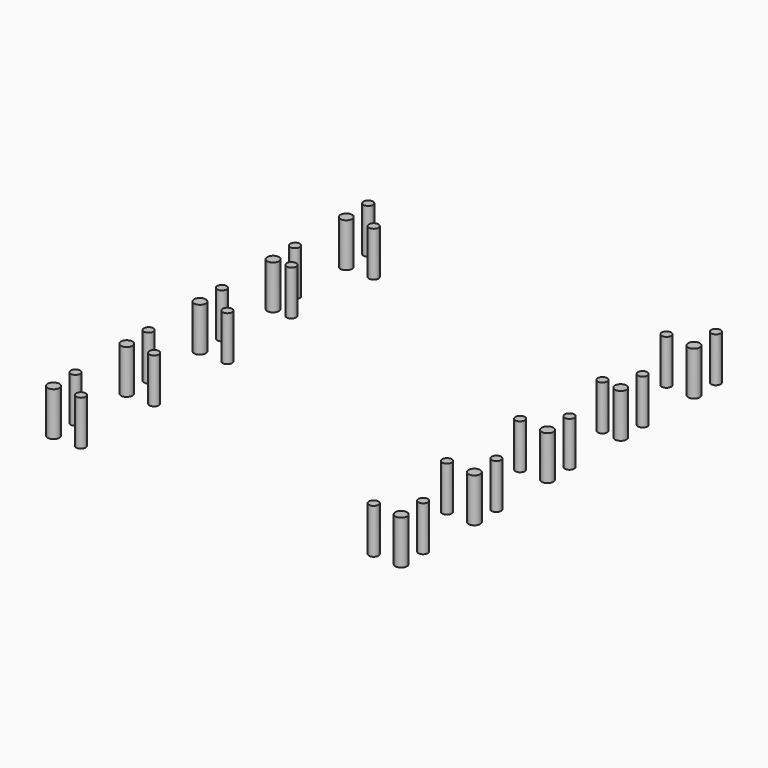
from build123d import *

# Parameters (mm, degrees)
CYLINDER036_R     = 2.57969
CYLINDER036_DEPTH = 24.5
CYLINDER035_R     = 3.175
CYLINDER035_DEPTH = 24
CYLINDER039_R     = 2.57969
CYLINDER039_DEPTH = 24.5
CYLINDER037_R     = 3.175
CYLINDER037_DEPTH = 24
CYLINDER038_R     = 2.57969
CYLINDER038_DEPTH = 24.5
CYLINDER040_R     = 2.57969
CYLINDER040_DEPTH = 24.5
CYLINDER030_R     = 2.57969
CYLINDER030_DEPTH = 24.5
CYLINDER029_R     = 3.175
CYLINDER029_DEPTH = 24
CYLINDER033_R     = 2.57969
CYLINDER033_DEPTH = 24.5
CYLINDER031_R     = 3.175
CYLINDER031_DEPTH = 24
CYLINDER032_R     = 2.57969
CYLINDER032_DEPTH = 24.5
CYLINDER034_R     = 2.57969
CYLINDER034_DEPTH = 24.5
CYLINDER024_R     = 2.57969
CYLINDER024_DEPTH = 24.5
CYLINDER023_R     = 3.175
CYLINDER023_DEPTH = 24
CYLINDER027_R     = 2.57969
CYLINDER027_DEPTH = 24.5
CYLINDER025_R     = 3.175
CYLINDER025_DEPTH = 24
CYLINDER026_R     = 2.57969
CYLINDER026_DEPTH = 24.5
CYLINDER028_R     = 2.57969
CYLINDER028_DEPTH = 24.5
CYLINDER018_R     = 2.57969
CYLINDER018_DEPTH = 24.5
CYLINDER017_R     = 3.175
CYLINDER017_DEPTH = 24
CYLINDER021_R     = 2.57969
CYLINDER021_DEPTH = 24.5
CYLINDER019_R     = 3.175
CYLINDER019_DEPTH = 24
CYLINDER020_R     = 2.57969
CYLINDER020_DEPTH = 24.5
CYLINDER022_R     = 2.57969
CYLINDER022_DEPTH = 24.5
CYLINDER042_R     = 2.57969
CYLINDER042_DEPTH = 24.5
CYLINDER041_R     = 3.175
CYLINDER041_DEPTH = 24
CYLINDER045_R     = 2.57969
CYLINDER045_DEPTH = 24.5
CYLINDER043_R     = 3.175
CYLINDER043_DEPTH = 24
CYLINDER044_R     = 2.57969
CYLINDER044_DEPTH = 24.5
CYLINDER046_R     = 2.57969
CYLINDER046_DEPTH = 24.5


with BuildPart() as threaded017:
    # Cylinder036 → Cylinder036 (new body)
    with BuildSketch(Plane(origin=(20, 10, 0), x_dir=(1, 0, 0), z_dir=(0, 0, 1))):
        Circle(CYLINDER036_R)
    extrude(amount=CYLINDER036_DEPTH)


with BuildPart() as obj1:
    # Cylinder035 → Cylinder035 (new body)
    with BuildSketch(Plane(origin=(10, 10, 0), x_dir=(1, 0, 0), z_dir=(0, 0, 1))):
        Circle(CYLINDER035_R)
    extrude(amount=CYLINDER035_DEPTH)


with BuildPart() as obj2:
    # Cylinder039 → Cylinder039 (new body)
    with BuildSketch(Plane(origin=(10, 25, 0), x_dir=(1, 0, 0), z_dir=(0, 0, 1))):
        Circle(CYLINDER039_R)
    extrude(amount=CYLINDER039_DEPTH)

    # Fusion013: union Threaded017, obj1
    add(threaded017.part)
    add(obj1.part)


with BuildPart() as obj3:
    # Cylinder037 → Cylinder037 (new body)
    with BuildSketch(Plane(origin=(10, 10, 0), x_dir=(1, 0, 0), z_dir=(0, 0, 1))):
        Circle(CYLINDER037_R)
    extrude(amount=CYLINDER037_DEPTH)


with BuildPart() as threaded018:
    # Cylinder038 → Cylinder038 (new body)
    with BuildSketch(Plane(origin=(0, 10, 0), x_dir=(1, 0, 0), z_dir=(0, 0, 1))):
        Circle(CYLINDER038_R)
    extrude(amount=CYLINDER038_DEPTH)


with BuildPart() as mountbar003:
    # Cylinder040 → Cylinder040 (new body)
    with BuildSketch(Plane(origin=(10, 25, 0), x_dir=(1, 0, 0), z_dir=(0, 0, 1))):
        Circle(CYLINDER040_R)
    extrude(amount=CYLINDER040_DEPTH)

    # Fusion014: union obj3, Threaded018
    add(obj3.part)
    add(threaded018.part)


with BuildPart() as mountbar003_1:
    # Fusion014 placement: moved
    add(mountbar003.part.moved(Location((190, 0, 0))))

    # Fusion015: union obj2
    add(obj2.part)


with BuildPart() as mountbar003_2:
    # Fusion015 placement: moved
    add(mountbar003_1.part.moved(Location((0, 150, 0))))


with BuildPart() as threaded013:
    # Cylinder030 → Cylinder030 (new body)
    with BuildSketch(Plane(origin=(25, 10, 0), x_dir=(1, 0, 0), z_dir=(0, 0, 1))):
        Circle(CYLINDER030_R)
    extrude(amount=CYLINDER030_DEPTH)


with BuildPart() as obj4:
    # Cylinder029 → Cylinder029 (new body)
    with BuildSketch(Plane(origin=(10, 10, 0), x_dir=(1, 0, 0), z_dir=(0, 0, 1))):
        Circle(CYLINDER029_R)
    extrude(amount=CYLINDER029_DEPTH)


with BuildPart() as obj5:
    # Cylinder033 → Cylinder033 (new body)
    with BuildSketch(Plane(origin=(10, 25, 0), x_dir=(1, 0, 0), z_dir=(0, 0, 1))):
        Circle(CYLINDER033_R)
    extrude(amount=CYLINDER033_DEPTH)

    # Fusion010: union Threaded013, obj4
    add(threaded013.part)
    add(obj4.part)


with BuildPart() as obj6:
    # Cylinder031 → Cylinder031 (new body)
    with BuildSketch(Plane(origin=(10, 10, 0), x_dir=(1, 0, 0), z_dir=(0, 0, 1))):
        Circle(CYLINDER031_R)
    extrude(amount=CYLINDER031_DEPTH)


with BuildPart() as threaded014:
    # Cylinder032 → Cylinder032 (new body)
    with BuildSketch(Plane(origin=(-5, 10, 0), x_dir=(1, 0, 0), z_dir=(0, 0, 1))):
        Circle(CYLINDER032_R)
    extrude(amount=CYLINDER032_DEPTH)


with BuildPart() as mountbar002:
    # Cylinder034 → Cylinder034 (new body)
    with BuildSketch(Plane(origin=(10, 25, 0), x_dir=(1, 0, 0), z_dir=(0, 0, 1))):
        Circle(CYLINDER034_R)
    extrude(amount=CYLINDER034_DEPTH)

    # Fusion011: union obj6, Threaded014
    add(obj6.part)
    add(threaded014.part)


with BuildPart() as mountbar002_1:
    # Fusion011 placement: moved
    add(mountbar002.part.moved(Location((190, 0, 0))))

    # Fusion012: union obj5
    add(obj5.part)


with BuildPart() as mountbar002_2:
    # Fusion012 placement: moved
    add(mountbar002_1.part.moved(Location((0, 100, 0))))


with BuildPart() as threaded009:
    # Cylinder024 → Cylinder024 (new body)
    with BuildSketch(Plane(origin=(25, 10, 0), x_dir=(1, 0, 0), z_dir=(0, 0, 1))):
        Circle(CYLINDER024_R)
    extrude(amount=CYLINDER024_DEPTH)


with BuildPart() as obj7:
    # Cylinder023 → Cylinder023 (new body)
    with BuildSketch(Plane(origin=(10, 10, 0), x_dir=(1, 0, 0), z_dir=(0, 0, 1))):
        Circle(CYLINDER023_R)
    extrude(amount=CYLINDER023_DEPTH)


with BuildPart() as obj8:
    # Cylinder027 → Cylinder027 (new body)
    with BuildSketch(Plane(origin=(10, 25, 0), x_dir=(1, 0, 0), z_dir=(0, 0, 1))):
        Circle(CYLINDER027_R)
    extrude(amount=CYLINDER027_DEPTH)

    # Fusion007: union Threaded009, obj7
    add(threaded009.part)
    add(obj7.part)


with BuildPart() as obj9:
    # Cylinder025 → Cylinder025 (new body)
    with BuildSketch(Plane(origin=(10, 10, 0), x_dir=(1, 0, 0), z_dir=(0, 0, 1))):
        Circle(CYLINDER025_R)
    extrude(amount=CYLINDER025_DEPTH)


with BuildPart() as threaded010:
    # Cylinder026 → Cylinder026 (new body)
    with BuildSketch(Plane(origin=(-5, 10, 0), x_dir=(1, 0, 0), z_dir=(0, 0, 1))):
        Circle(CYLINDER026_R)
    extrude(amount=CYLINDER026_DEPTH)


with BuildPart() as mountbar001:
    # Cylinder028 → Cylinder028 (new body)
    with BuildSketch(Plane(origin=(10, 25, 0), x_dir=(1, 0, 0), z_dir=(0, 0, 1))):
        Circle(CYLINDER028_R)
    extrude(amount=CYLINDER028_DEPTH)

    # Fusion008: union obj9, Threaded010
    add(obj9.part)
    add(threaded010.part)


with BuildPart() as mountbar001_1:
    # Fusion008 placement: moved
    add(mountbar001.part.moved(Location((190, 0, 0))))

    # Fusion009: union obj8
    add(obj8.part)


with BuildPart() as mountbar001_2:
    # Fusion009 placement: moved
    add(mountbar001_1.part.moved(Location((0, 50, 0))))


with BuildPart() as threaded005:
    # Cylinder018 → Cylinder018 (new body)
    with BuildSketch(Plane(origin=(25, 10, 0), x_dir=(1, 0, 0), z_dir=(0, 0, 1))):
        Circle(CYLINDER018_R)
    extrude(amount=CYLINDER018_DEPTH)


with BuildPart() as obj10:
    # Cylinder017 → Cylinder017 (new body)
    with BuildSketch(Plane(origin=(10, 10, 0), x_dir=(1, 0, 0), z_dir=(0, 0, 1))):
        Circle(CYLINDER017_R)
    extrude(amount=CYLINDER017_DEPTH)


with BuildPart() as obj11:
    # Cylinder021 → Cylinder021 (new body)
    with BuildSketch(Plane(origin=(10, 25, 0), x_dir=(1, 0, 0), z_dir=(0, 0, 1))):
        Circle(CYLINDER021_R)
    extrude(amount=CYLINDER021_DEPTH)

    # Fusion004: union Threaded005, obj10
    add(threaded005.part)
    add(obj10.part)


with BuildPart() as obj12:
    # Cylinder019 → Cylinder019 (new body)
    with BuildSketch(Plane(origin=(10, 10, 0), x_dir=(1, 0, 0), z_dir=(0, 0, 1))):
        Circle(CYLINDER019_R)
    extrude(amount=CYLINDER019_DEPTH)


with BuildPart() as threaded006:
    # Cylinder020 → Cylinder020 (new body)
    with BuildSketch(Plane(origin=(-5, 10, 0), x_dir=(1, 0, 0), z_dir=(0, 0, 1))):
        Circle(CYLINDER020_R)
    extrude(amount=CYLINDER020_DEPTH)


with BuildPart() as mountbar:
    # Cylinder022 → Cylinder022 (new body)
    with BuildSketch(Plane(origin=(10, 25, 0), x_dir=(1, 0, 0), z_dir=(0, 0, 1))):
        Circle(CYLINDER022_R)
    extrude(amount=CYLINDER022_DEPTH)

    # Fusion005: union obj12, Threaded006
    add(obj12.part)
    add(threaded006.part)


with BuildPart() as mountbar_1:
    # Fusion005 placement: moved
    add(mountbar.part.moved(Location((190, 0, 0))))

    # Fusion006: union obj11
    add(obj11.part)


with BuildPart() as threaded021:
    # Cylinder042 → Cylinder042 (new body)
    with BuildSketch(Plane(origin=(25, 10, 0), x_dir=(1, 0, 0), z_dir=(0, 0, 1))):
        Circle(CYLINDER042_R)
    extrude(amount=CYLINDER042_DEPTH)


with BuildPart() as obj13:
    # Cylinder041 → Cylinder041 (new body)
    with BuildSketch(Plane(origin=(10, 10, 0), x_dir=(1, 0, 0), z_dir=(0, 0, 1))):
        Circle(CYLINDER041_R)
    extrude(amount=CYLINDER041_DEPTH)


with BuildPart() as obj14:
    # Cylinder045 → Cylinder045 (new body)
    with BuildSketch(Plane(origin=(10, 25, 0), x_dir=(1, 0, 0), z_dir=(0, 0, 1))):
        Circle(CYLINDER045_R)
    extrude(amount=CYLINDER045_DEPTH)

    # Fusion016: union Threaded021, obj13
    add(threaded021.part)
    add(obj13.part)


with BuildPart() as obj15:
    # Cylinder043 → Cylinder043 (new body)
    with BuildSketch(Plane(origin=(10, 10, 0), x_dir=(1, 0, 0), z_dir=(0, 0, 1))):
        Circle(CYLINDER043_R)
    extrude(amount=CYLINDER043_DEPTH)


with BuildPart() as threaded022:
    # Cylinder044 → Cylinder044 (new body)
    with BuildSketch(Plane(origin=(-5, 10, 0), x_dir=(1, 0, 0), z_dir=(0, 0, 1))):
        Circle(CYLINDER044_R)
    extrude(amount=CYLINDER044_DEPTH)


with BuildPart() as obj16:
    # Cylinder046 → Cylinder046 (new body)
    with BuildSketch(Plane(origin=(10, 25, 0), x_dir=(1, 0, 0), z_dir=(0, 0, 1))):
        Circle(CYLINDER046_R)
    extrude(amount=CYLINDER046_DEPTH)

    # Fusion017: union obj15, Threaded022
    add(obj15.part)
    add(threaded022.part)


with BuildPart() as obj16_1:
    # Fusion017 placement: moved
    add(obj16.part.moved(Location((190, 0, 0))))

    # Fusion018: union obj14
    add(obj14.part)


with BuildPart() as obj16_2:
    # Fusion018 placement: moved
    add(obj16_1.part.moved(Location((0, 200, 0))))

    # Fusion019: union MountBar003, MountBar002, MountBar001, MountBar
    add(mountbar003_2.part)
    add(mountbar002_2.part)
    add(mountbar001_2.part)
    add(mountbar_1.part)


with BuildPart() as obj16_3:
    # Fusion019 placement: moved
    add(obj16_2.part.moved(Location((0, -3, 0))))


solid = obj16_3.part
